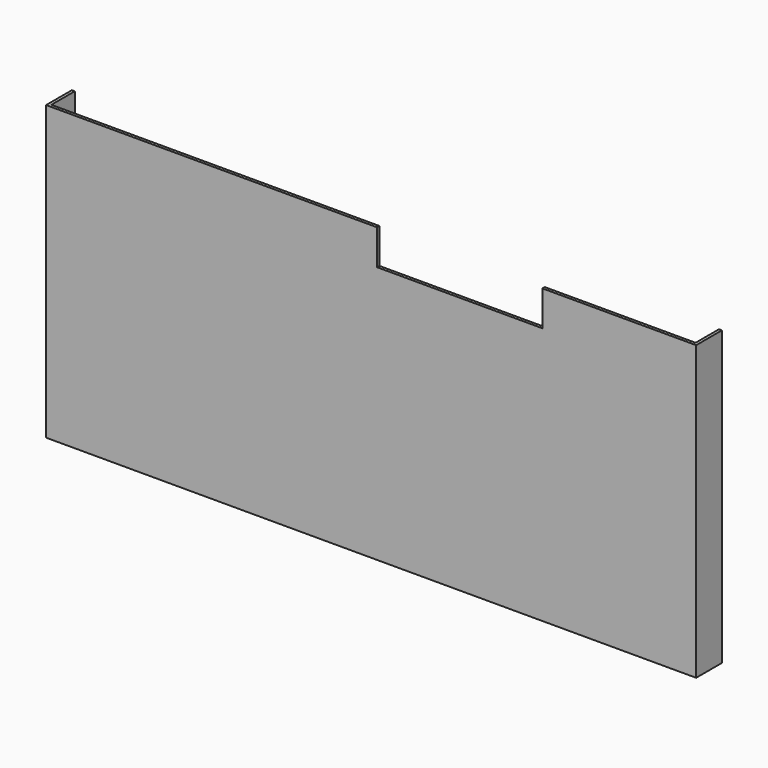
from build123d import *

# Parameters (mm, degrees)
F1_DEPTH = 1
F2_W     = 1
F2_H     = 100
F3_DEPTH = 10


with BuildPart() as f1:
    # F0 (on Front) → F1 (new body)
    with BuildSketch(Plane.XZ):
        Polygon((111, -54.083949), (111, 45.916051), (58.5, 45.916051), (58.5, 33.916051), (2, 33.916051), (2, 45.916051), (-111, 45.916051), (-111, -54.083949), align=None)
    extrude(amount=F1_DEPTH)

    # F2 (on face) → F3 (join)
    with BuildSketch(Plane(origin=(0, 0, 0), x_dir=(-1, 0, 0), z_dir=(0, 1, 0))):
        with Locations((-110.5, -4.083949)):
            Rectangle(F2_W, F2_H)
        with Locations((110.5, -4.083949)):
            Rectangle(F2_W, F2_H)
    extrude(amount=F3_DEPTH)


solid = f1.part
